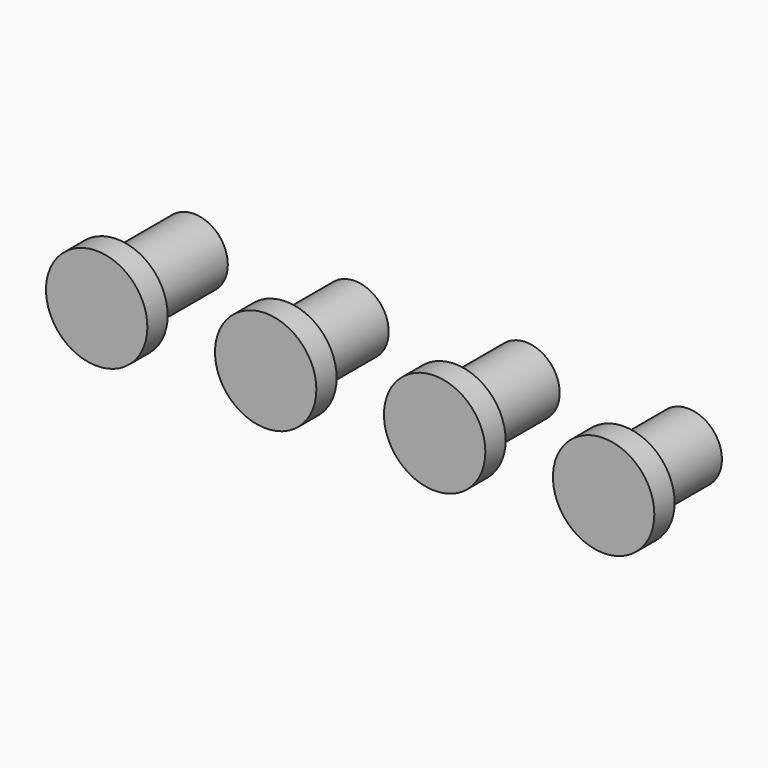
from build123d import *

# Parameters (mm, degrees)
F0_R     = 4
F1_DEPTH = 14.4
F2_DEPTH = 13.2
F3_DEPTH = 13.5
F4_DEPTH = 12.5
F0_R_2   = 6
F5_DEPTH = 3


with BuildPart() as f1:
    # F0 (on Front) → F1 (new body)
    with BuildSketch(Plane.XZ):
        Circle(F0_R)
    extrude(amount=-F1_DEPTH)



with BuildPart() as f2:
    # F0 (on Front) → F2 (new body)
    with BuildSketch(Plane.XZ):
        with Locations((20, 0)):
            Circle(F0_R)
    extrude(amount=-F2_DEPTH)


with BuildPart() as f3:
    # F0 (on Front) → F3 (new body)
    with BuildSketch(Plane.XZ):
        with Locations((40, 0)):
            Circle(F0_R)
    extrude(amount=-F3_DEPTH)


with BuildPart() as f4:
    # F0 (on Front) → F4 (new body)
    with BuildSketch(Plane.XZ):
        with Locations((60, 0)):
            Circle(F0_R)
    extrude(amount=-F4_DEPTH)


with BuildPart() as f1_1:
    add(f1.part)

    add(f2.part)  # F5 merges F2

    add(f3.part)  # F5 merges F3

    add(f4.part)  # F5 merges F4
    # F0 (on Front) → F5 (join)
    with BuildSketch(Plane.XZ):
        with Locations((40, 0)):
            Circle(F0_R_2)
        with Locations((40, 0)):
            Circle(F0_R, mode=Mode.SUBTRACT)
        with Locations((20, 0)):
            Circle(F0_R_2)
        with Locations((20, 0)):
            Circle(F0_R, mode=Mode.SUBTRACT)
        Circle(F0_R_2)
        Circle(F0_R, mode=Mode.SUBTRACT)
        with Locations((60, 0)):
            Circle(F0_R_2)
        with Locations((60, 0)):
            Circle(F0_R, mode=Mode.SUBTRACT)
    extrude(amount=-F5_DEPTH)


solid = f1_1.part
